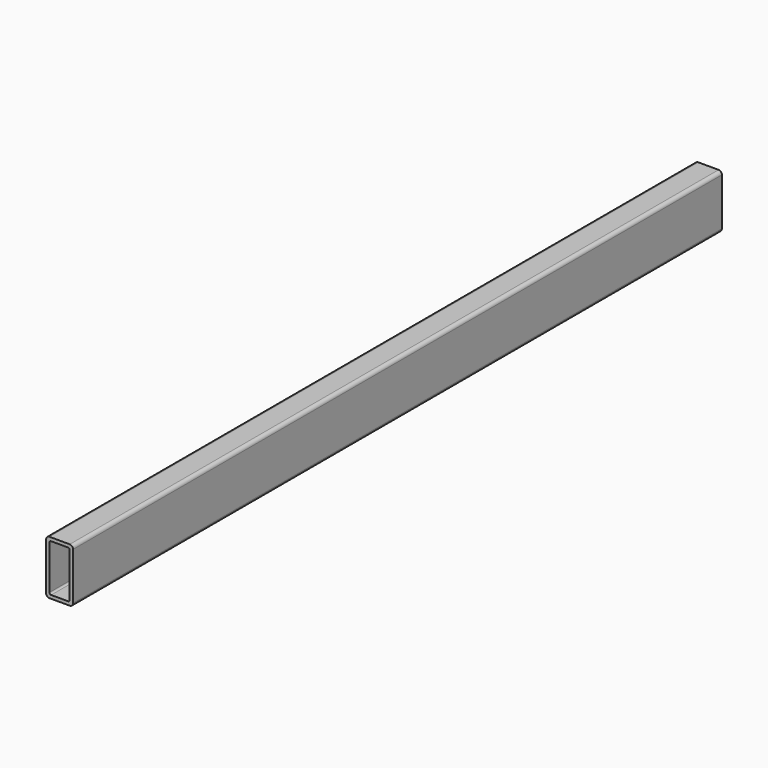
from build123d import *

# Parameters (mm, degrees)
F1_DEPTH = 762


with BuildPart() as f1:
    # F0 (on Front) → F1 (new body, symmetric)
    with BuildSketch(Plane.XZ):
        with BuildLine():
            ThreePointArc((25.4, 44.45), (23.540128, 48.940128), (19.05, 50.8))
            Line((19.05, 50.8), (-19.05, 50.8))
            ThreePointArc((-19.05, 50.8), (-23.540128, 48.940128), (-25.4, 44.45))
            Line((-25.4, 44.45), (-25.4, -44.45))
            ThreePointArc((-25.4, -44.45), (-23.540128, -48.940128), (-19.05, -50.8))
            Line((-19.05, -50.8), (19.05, -50.8))
            ThreePointArc((19.05, -50.8), (23.540128, -48.940128), (25.4, -44.45))
            Line((25.4, -44.45), (25.4, 44.45))
        make_face()
        with BuildLine():
            Line((-15.875, 44.45), (15.875, 44.45))
            ThreePointArc((15.875, 44.45), (18.120064, 43.520064), (19.05, 41.275))
            Line((19.05, 41.275), (19.05, -41.275))
            ThreePointArc((19.05, -41.275), (18.120064, -43.520064), (15.875, -44.45))
            Line((15.875, -44.45), (-15.875, -44.45))
            ThreePointArc((-15.875, -44.45), (-18.120064, -43.520064), (-19.05, -41.275))
            Line((-19.05, -41.275), (-19.05, 41.275))
            ThreePointArc((-19.05, 41.275), (-18.120064, 43.520064), (-15.875, 44.45))
        make_face(mode=Mode.SUBTRACT)
    extrude(amount=F1_DEPTH, both=True)


solid = f1.part
